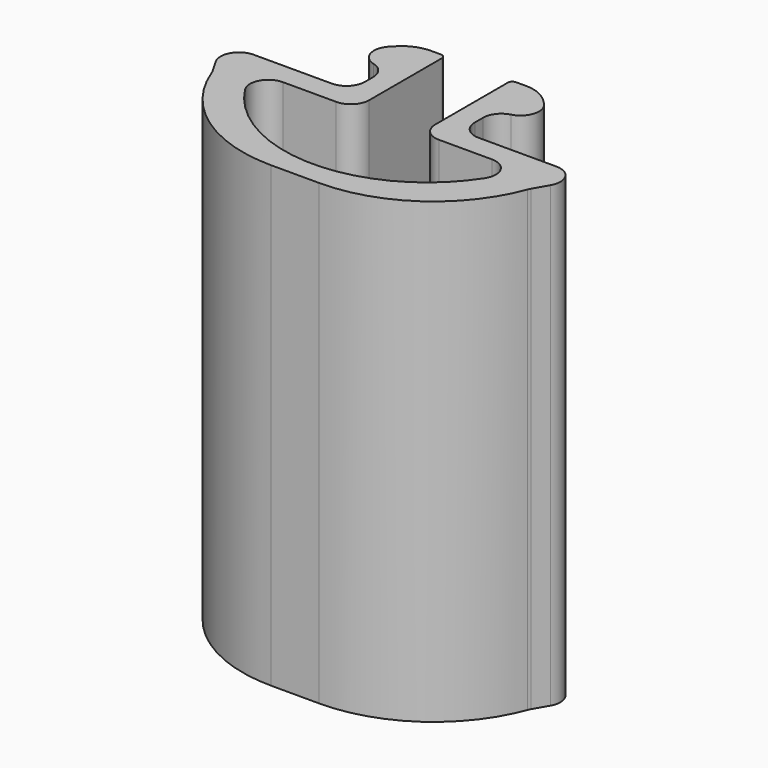
from build123d import *

# Parameters (mm, degrees)
PAD_DEPTH   = 25
FILLET_R    = 1
FILLET001_R = 7.8
FILLET002_R = 2
FILLET003_R = 0.25


with BuildPart() as part:
    # Sketch → Pad (new body)
    with BuildSketch(Plane.XY):
        with BuildLine():
            Line((-1.8, 5), (-3.414214, 5))
            Line((-3.414214, 5), (-4.207107, 4.207107))
            ThreePointArc((-4.207107, 4.207107), (-4.42388, 3.117317), (-3.5, 2.5))
            Line((-3.5, 2.5), (-3, 2.5))
            Line((-3, 2.5), (-3, 0))
            Line((-3, 0), (-10, 0))
            Line((-10, 0), (-8.556624, -2.5))
            Line((-8.556624, -2.5), (-8.556624, -7.5))
            Line((-8.556624, -7.5), (8.556624, -7.5))
            Line((8.556624, -7.5), (8.556624, -2.5))
            Line((8.556624, -2.5), (10, 0))
            Line((10, 0), (3, 0))
            Line((3, 0), (3, 2.5))
            Line((3, 2.5), (3.5, 2.5))
            ThreePointArc((3.5, 2.5), (4.42388, 3.117317), (4.207107, 4.207107))
            Line((4.207107, 4.207107), (3.414214, 5))
            Line((3.414214, 5), (1.8, 5))
            Line((1.8, 5), (1.8, -1.2))
            Line((1.8, -1.2), (7.317787, -1.2))
            ThreePointArc((-7.317787, -1.2), (0, -6.3), (7.317787, -1.2))
            Line((-7.317787, -1.2), (-1.8, -1.2))
            Line((-1.8, -1.2), (-1.8, 5))
        make_face()
    extrude(amount=PAD_DEPTH)

    # Fillet
    fillet_edges = [part.edges().sort_by_distance(p)[0] for p in [
        (-8.556624, -2.5, 12.5),
        (8.556624, -2.5, 12.5),
        (10, 0, 12.5),
        (-10, 0, 12.5),
        (7.317787, -1.2, 12.5),
        (-7.317787, -1.2, 12.5),
        (1.8, -1.2, 12.5),
        (-1.8, -1.2, 12.5),
        (3, 0, 12.5),
        (-3, 0, 12.5),
        (3, 2.5, 12.5),
        (-3, 2.5, 12.5),
    ]]
    fillet(fillet_edges, radius=FILLET_R)

    # Fillet001
    fillet001_edges = [part.edges().sort_by_distance(p)[0] for p in [
        (-8.556624, -7.5, 12.5),
        (8.556624, -7.5, 12.5),
    ]]
    fillet(fillet001_edges, radius=FILLET001_R)

    # Fillet002
    fillet002_edges = [part.edges().sort_by_distance(p)[0] for p in [
        (-3.414214, 5, 12.5),
        (3.414214, 5, 12.5),
    ]]
    fillet(fillet002_edges, radius=FILLET002_R)

    # Fillet003
    fillet003_edges = [part.edges().sort_by_distance(p)[0] for p in [
        (-1.8, 5, 12.5),
        (1.8, 5, 12.5),
    ]]
    fillet(fillet003_edges, radius=FILLET003_R)


solid = part.part
